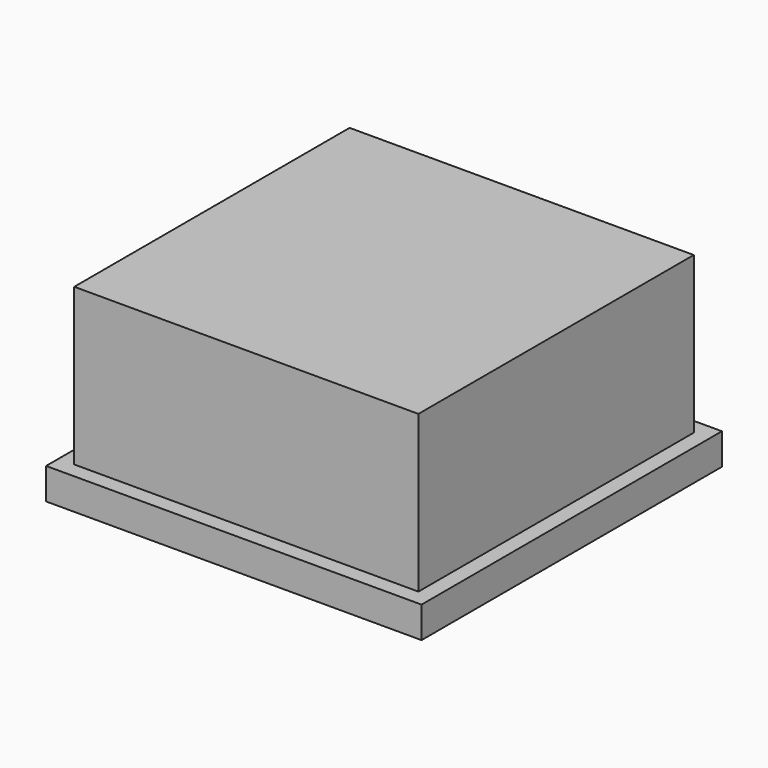
from build123d import *

# Parameters (mm, degrees)
F1_W     = 11
F1_H     = 11
F2_DEPTH = 6
F0_W     = 12
F0_H     = 12
F3_DEPTH = 1
F4_W     = 4
F4_H     = 2
F5_DEPTH = 4


with BuildPart() as f2:
    # F1 (on face) → F2 (new body)
    with BuildSketch(Plane.XY):
        Rectangle(F1_W, F1_H)
    extrude(amount=F2_DEPTH)

    # F0 (on Top) → F3 (join)
    with BuildSketch(Plane.XY):
        Rectangle(F0_W, F0_H)
    extrude(amount=F3_DEPTH)

    # F4 (on face) → F5 (cut)
    with BuildSketch(Plane(origin=(0, 0, 0), x_dir=(1, 0, 0), z_dir=(0, 0, -1))):
        Rectangle(F4_W, F4_H)
    extrude(amount=-F5_DEPTH, mode=Mode.SUBTRACT)


solid = f2.part
